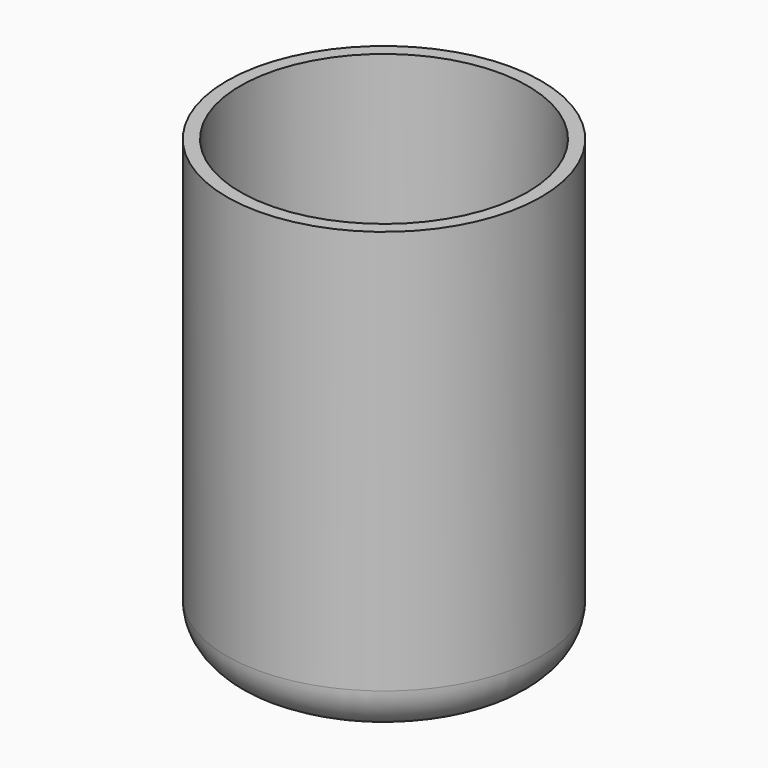
from build123d import *

# Parameters (mm, degrees)
F0_R     = 35
F1_DEPTH = 100
F2_T     = -3
F3_R     = 10


with BuildPart() as f1:
    # F0 (on Top) → F1 (new body)
    with BuildSketch(Plane.XY):
        Circle(F0_R)
    extrude(amount=F1_DEPTH)

    # F2
    f2_openings = [f1.faces().sort_by_distance(p)[0] for p in [
        (0, 0, 100),
    ]]
    offset(amount=F2_T, openings=f2_openings)

    # F3
    f3_edges = [f1.edges().sort_by_distance(p)[0] for p in [
        (-35, 0, 0),
    ]]
    fillet(f3_edges, radius=F3_R)


solid = f1.part
